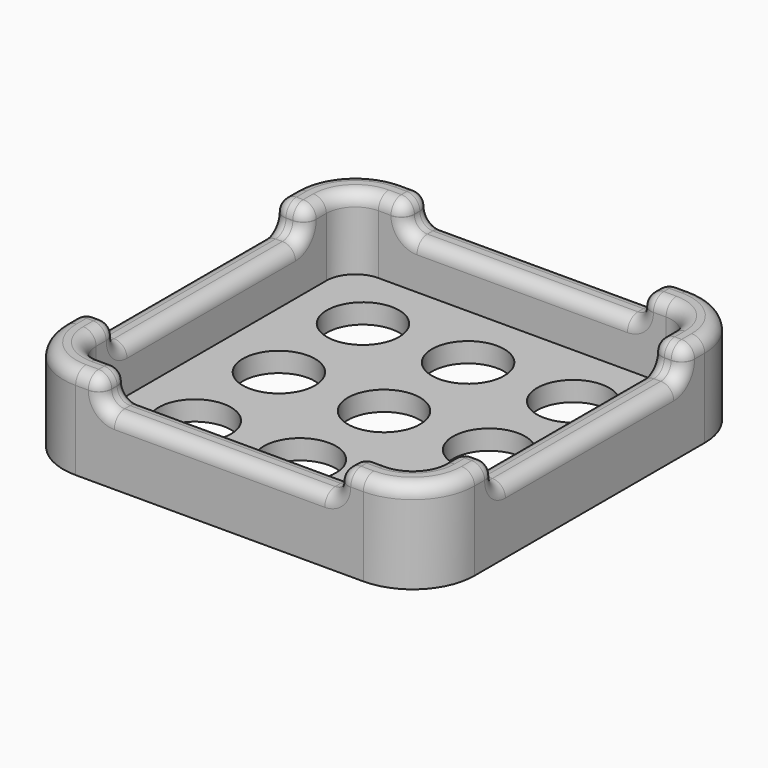
from build123d import *

# Parameters (mm, degrees)
PAD_DEPTH       = 7
SKETCH002_R     = 2.75
POCKET_DEPTH    = 8
POCKET001_DEPTH = 5.5
SKETCH003_W     = 18
SKETCH003_H     = 32
SKETCH003_W_2   = 32
SKETCH003_H_2   = 18
POCKET002_DEPTH = 2
FILLET_R        = 0.99


with BuildPart() as part:
    # Sketch001 → Pad (new body)
    with BuildSketch(Plane.XY):
        with BuildLine():
            ThreePointArc((-10.95, 15.65), (-14.273402, 14.273402), (-15.65, 10.95))
            Line((-15.65, -10.95), (-15.65, 10.95))
            ThreePointArc((-15.65, -10.95), (-14.273402, -14.273402), (-10.95, -15.65))
            Line((10.95, -15.65), (-10.95, -15.65))
            ThreePointArc((10.95, -15.65), (14.273402, -14.273402), (15.65, -10.95))
            Line((15.65, 10.95), (15.65, -10.95))
            ThreePointArc((15.65, 10.95), (14.273402, 14.273402), (10.95, 15.65))
            Line((-10.95, 15.65), (10.95, 15.65))
        make_face()
    extrude(amount=-PAD_DEPTH)

    # Sketch002 → Pocket (cut)
    with BuildSketch(Plane.XY):
        Circle(SKETCH002_R)
        with Locations((0, 8)):
            Circle(SKETCH002_R)
        with Locations((8, 8)):
            Circle(SKETCH002_R)
        with Locations((-8, 8)):
            Circle(SKETCH002_R)
        with Locations((-8, 0)):
            Circle(SKETCH002_R)
        with Locations((8, 0)):
            Circle(SKETCH002_R)
        with Locations((8, -8)):
            Circle(SKETCH002_R)
        with Locations((0, -8)):
            Circle(SKETCH002_R)
        with Locations((-8, -8)):
            Circle(SKETCH002_R)
    extrude(amount=-POCKET_DEPTH, mode=Mode.SUBTRACT)

    # Sketch → Pocket001 (cut)
    with BuildSketch(Plane.XY):
        with BuildLine():
            ThreePointArc((-10.95, 13.15), (-12.505635, 12.505635), (-13.15, 10.95))
            Line((-13.15, -10.95), (-13.15, 10.95))
            ThreePointArc((-13.15, -10.95), (-12.505635, -12.505635), (-10.95, -13.15))
            Line((10.95, -13.15), (-10.95, -13.15))
            ThreePointArc((10.95, -13.15), (12.505635, -12.505635), (13.15, -10.95))
            Line((13.15, 10.95), (13.15, -10.95))
            ThreePointArc((13.15, 10.95), (12.505635, 12.505635), (10.95, 13.15))
            Line((-10.95, 13.15), (10.95, 13.15))
        make_face()
    extrude(amount=-POCKET001_DEPTH, mode=Mode.SUBTRACT)

    # Sketch003 (on Face4 of Pocket001) → Pocket002 (cut)
    with BuildSketch(Plane.XY):
        Rectangle(SKETCH003_W, SKETCH003_H)
        Rectangle(SKETCH003_W_2, SKETCH003_H_2)
    extrude(amount=-POCKET002_DEPTH, mode=Mode.SUBTRACT)

    # Fillet
    fillet_edges = [part.edges().sort_by_distance(p)[0] for p in [
        (-9.975, 15.65, 0),
        (-9, 14.4, 0),
        (-9.975, 13.15, 0),
        (-12.505635, 12.505635, 0),
        (-13.15, 9.975, 0),
        (-14.4, 9, 0),
        (-15.65, 9.975, 0),
        (-14.273402, 14.273402, 0),
        (-9, 14.4, -2),
        (0, 15.65, -2),
        (9, 14.4, -2),
        (0, 13.15, -2),
        (9, 14.4, 0),
        (9, 13.15, -1),
        (9, 15.65, -1),
        (9.975, 15.65, 0),
        (14.273402, 14.273402, 0),
        (15.65, 9.975, 0),
        (14.4, 9, 0),
        (13.15, 9.975, 0),
        (12.505635, 12.505635, 0),
        (9.975, 13.15, 0),
        (13.15, 9, -1),
        (14.4, 9, -2),
        (15.65, 9, -1),
        (15.65, 0, -2),
        (14.4, -9, -2),
        (13.15, 0, -2),
        (15.65, -9.975, 0),
        (14.273402, -14.273402, 0),
        (9.975, -15.65, 0),
        (9, -14.4, 0),
        (9.975, -13.15, 0),
        (12.505635, -12.505635, 0),
        (13.15, -9.975, 0),
        (14.4, -9, 0),
        (9, -15.65, -1),
        (9, -14.4, -2),
        (9, -13.15, -1),
        (0, -13.15, -2),
        (0, -15.65, -2),
        (-9, -14.4, -2),
        (-14.4, -9, 0),
        (-13.15, -9.975, 0),
        (-12.505635, -12.505635, 0),
        (-9.975, -13.15, 0),
        (-9, -14.4, 0),
        (-9.975, -15.65, 0),
        (-14.273402, -14.273402, 0),
        (-15.65, -9.975, 0),
        (-14.4, 9, -2),
        (-13.15, 0, -2),
        (-14.4, -9, -2),
        (-15.65, 0, -2),
        (-15.65, 9, -1),
        (-13.15, 9, -1),
        (-9, 15.65, -1),
        (-9, 13.15, -1),
        (-9, -13.15, -1),
        (-9, -15.65, -1),
        (15.65, -9, -1),
        (13.15, -9, -1),
        (-13.15, -9, -1),
        (-15.65, -9, -1),
    ]]
    fillet(fillet_edges, radius=FILLET_R)


solid = part.part
